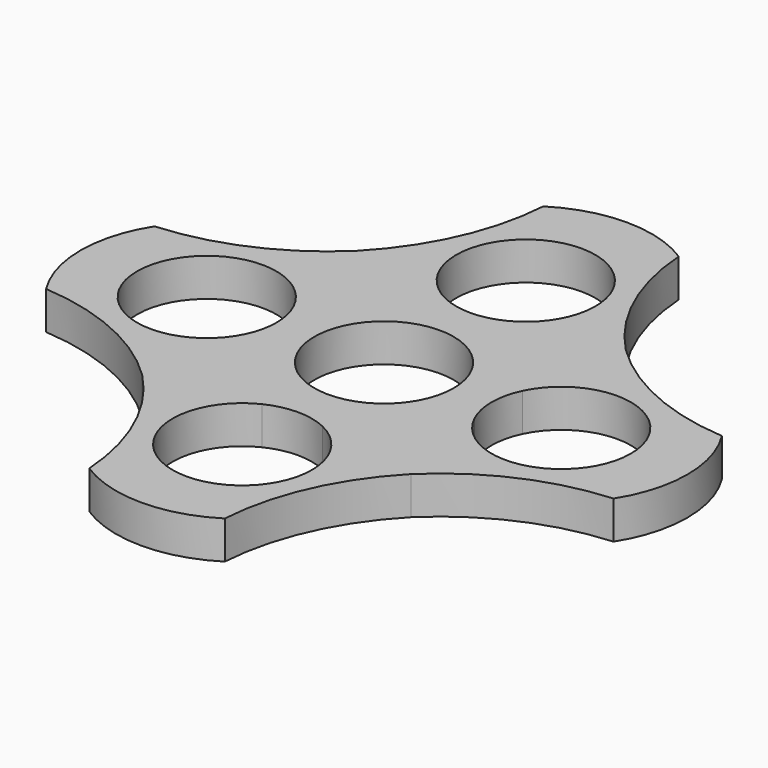
from build123d import *

# Parameters (mm, degrees)
F0_R     = 11
F1_DEPTH = 6


with BuildPart() as f1:
    # F0 (on Top) → F1 (new body)
    with BuildSketch(Plane.XY):
        with BuildLine():
            ThreePointArc((-10.705652, 44.81855), (-13.863321, 32.084192), (-21.222376, 21.222376))
            ThreePointArc((-21.222376, 21.222376), (-32.084192, 13.863321), (-44.81855, 10.705652))
            ThreePointArc((-44.81855, 10.705652), (-47.936765, 0), (-44.81855, -10.705652))
            ThreePointArc((-44.81855, -10.705652), (-32.084192, -13.863321), (-21.222376, -21.222376))
            ThreePointArc((-21.222376, -21.222376), (-13.863321, -32.084192), (-10.705652, -44.81855))
            ThreePointArc((-10.705652, -44.81855), (0, -47.936765), (10.705652, -44.81855))
            ThreePointArc((10.705652, -44.81855), (13.863321, -32.084192), (21.222376, -21.222376))
            ThreePointArc((21.222376, -21.222376), (32.084192, -13.863321), (44.81855, -10.705652))
            ThreePointArc((44.81855, -10.705652), (47.936765, 0), (44.81855, 10.705652))
            ThreePointArc((44.81855, 10.705652), (32.084192, 13.863321), (21.222376, 21.222376))
            ThreePointArc((21.222376, 21.222376), (13.863321, 32.084192), (10.705652, 44.81855))
            ThreePointArc((10.705652, 44.81855), (0, 47.936765), (-10.705652, 44.81855))
        make_face()
        with BuildLine():
            ThreePointArc((4.771844, -18.08892), (0, -39), (-4.771844, -18.08892))
            ThreePointArc((-4.771844, -18.08892), (0, -17), (4.771844, -18.08892))
        make_face(mode=Mode.SUBTRACT)
        with BuildLine():
            ThreePointArc((18.08892, 4.771844), (39, 0), (18.08892, -4.771844))
            ThreePointArc((18.08892, -4.771844), (17, 0), (18.08892, 4.771844))
        make_face(mode=Mode.SUBTRACT)
        with BuildLine():
            ThreePointArc((-18.08892, -4.771844), (-39, 0), (-18.08892, 4.771844))
            ThreePointArc((-18.08892, 4.771844), (-17, 0), (-18.08892, -4.771844))
        make_face(mode=Mode.SUBTRACT)
        Circle(F0_R, mode=Mode.SUBTRACT)
        with BuildLine():
            ThreePointArc((-4.771844, 18.08892), (0, 39), (4.771844, 18.08892))
            ThreePointArc((4.771844, 18.08892), (0, 17), (-4.771844, 18.08892))
        make_face(mode=Mode.SUBTRACT)
    extrude(amount=F1_DEPTH)


solid = f1.part
